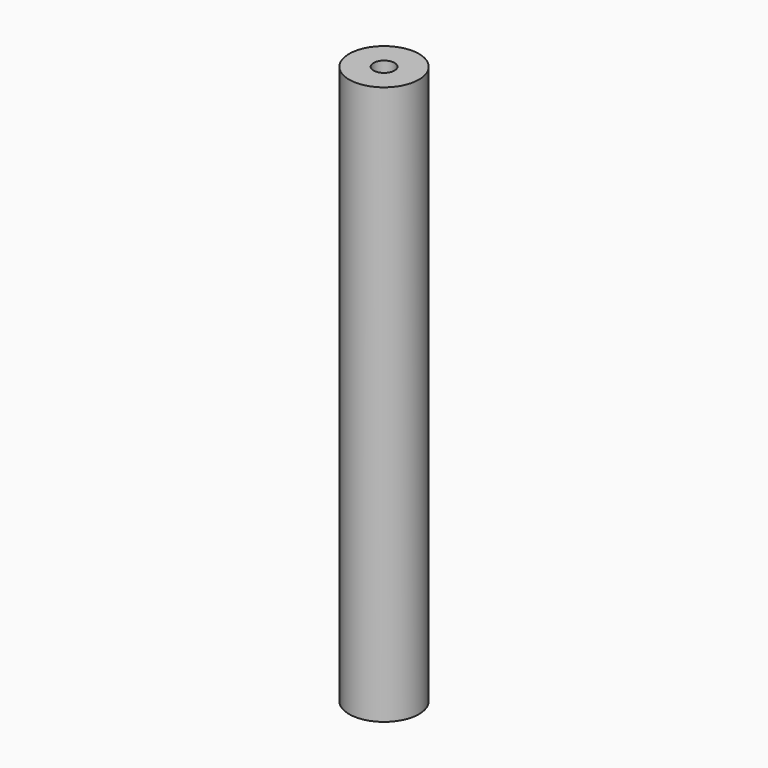
from build123d import *

# Parameters (mm, degrees)
SKETCH_R   = 5
SKETCH_R_2 = 1.5
PAD_DEPTH  = 80


with BuildPart() as part:
    # Sketch → Pad (new body)
    with BuildSketch(Plane.XY):
        Circle(SKETCH_R)
        Circle(SKETCH_R_2, mode=Mode.SUBTRACT)
    extrude(amount=PAD_DEPTH)


solid = part.part
